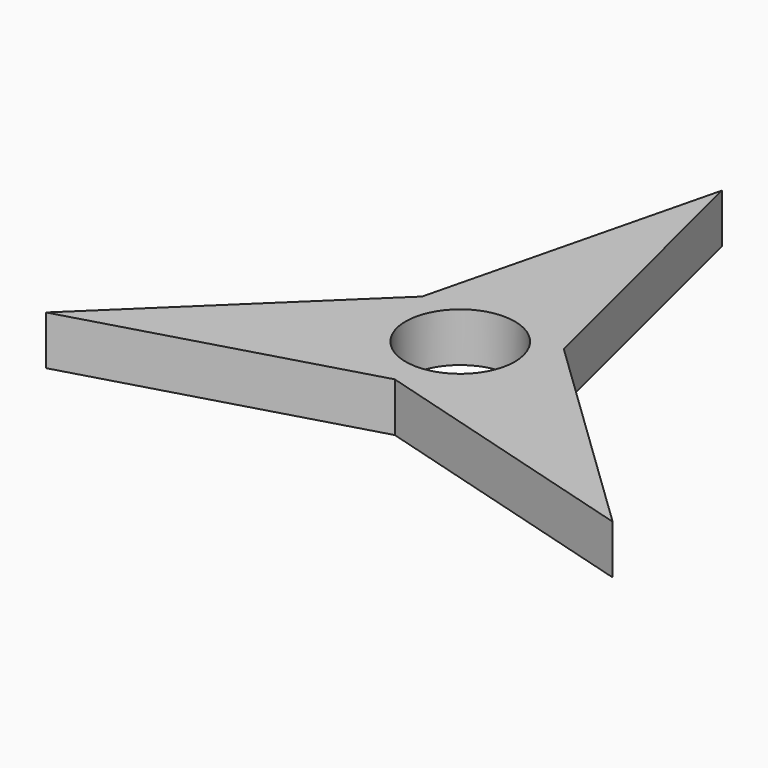
from build123d import *

# Parameters (mm, degrees)
F2_DEPTH = 7.62
F1_R     = 8.475319
F3_DEPTH = 73.914


with BuildPart() as f2:
    # F0 (on Top) → F2 (new body)
    with BuildSketch(Plane.XY):
        Polygon((-10.998523, 6.35), (0, 0), (0, 50.8), align=None)
        Polygon((-10.998523, 6.35), (-43.994091, -25.4), (0, 0), align=None)
        Polygon((0, 0), (-43.994091, -25.4), (0, -12.7), align=None)
        Polygon((43.994091, -25.4), (0, 0), (0, -12.7), align=None)
        Polygon((0, 50.8), (0, 0), (10.998523, 6.35), align=None)
        Polygon((10.998523, 6.35), (0, 0), (43.994091, -25.4), align=None)
    extrude(amount=F2_DEPTH)

    # F1 (on Top) → F3 (cut)
    with BuildSketch(Plane.XY):
        Circle(F1_R)
    extrude(amount=F3_DEPTH, mode=Mode.SUBTRACT)


solid = f2.part
